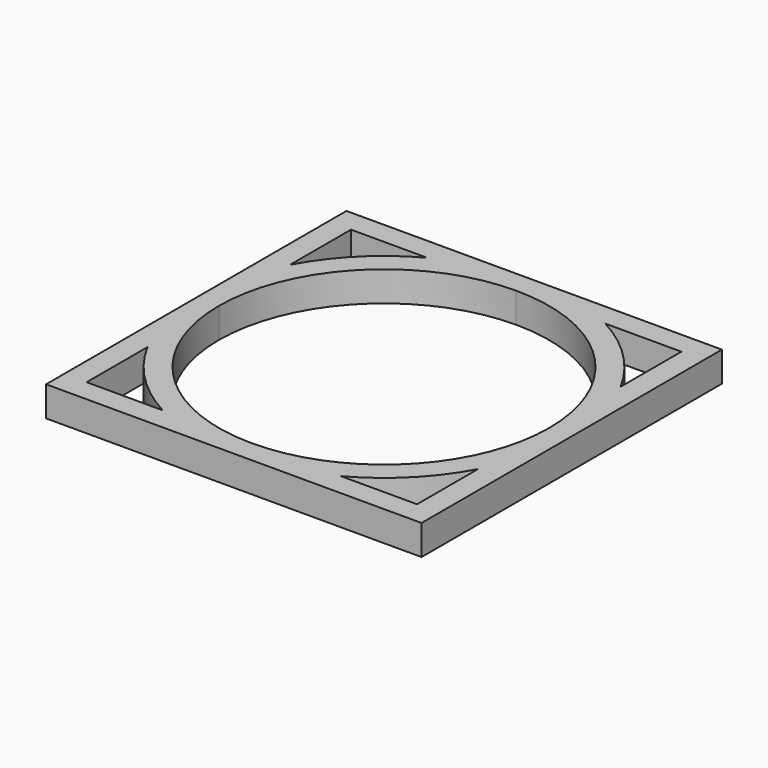
from build123d import *

# Parameters (mm, degrees)
F1_DEPTH = 4


with BuildPart() as f1:
    # F0 (on Top) → F1 (new body)
    with BuildSketch(Plane.XY):
        with BuildLine():
            Line((-50, 50), (-50, 25))
            ThreePointArc((-50, 25), (-49.2383992871, 31.123724357), (-47, 36.874342087))
            Line((-47, 36.874342087), (-47, 47))
            Line((-47, 47), (-36.874342087, 47))
            ThreePointArc((-36.874342087, 47), (-31.123724357, 49.2383992871), (-25, 50))
            Line((-25, 50), (-50, 50))
        make_face()
        with BuildLine():
            ThreePointArc((-47, 36.874342087), (-49.2383992871, 31.123724357), (-50, 25))
            ThreePointArc((-50, 25), (-49.2383992871, 18.876275643), (-47, 13.125657913))
            Line((-47, 13.125657913), (-47, 25))
            Line((-47, 25), (-47, 36.874342087))
        make_face()
        with BuildLine():
            Line((-50, 0), (-25, 0))
            ThreePointArc((-25, 0), (-31.123724357, 0.7616007129), (-36.874342087, 3))
            Line((-36.874342087, 3), (-47, 3))
            Line((-47, 3), (-47, 13.125657913))
            ThreePointArc((-47, 13.125657913), (-49.2383992871, 18.876275643), (-50, 25))
            Line((-50, 25), (-50, 0))
        make_face()
        with BuildLine():
            ThreePointArc((-36.874342087, 3), (-31.123724357, 0.7616007129), (-25, 0))
            ThreePointArc((-25, 0), (-18.876275643, 0.7616007129), (-13.125657913, 3))
            Line((-13.125657913, 3), (-25, 3))
            Line((-25, 3), (-36.874342087, 3))
        make_face()
        with BuildLine():
            Line((-25, 0), (0, 0))
            Line((0, 0), (0, 25))
            ThreePointArc((0, 25), (-0.7616007129, 18.876275643), (-3, 13.125657913))
            Line((-3, 13.125657913), (-3, 3))
            Line((-3, 3), (-13.125657913, 3))
            ThreePointArc((-13.125657913, 3), (-18.876275643, 0.7616007129), (-25, 0))
        make_face()
        with BuildLine():
            ThreePointArc((-3, 13.125657913), (-0.7616007129, 18.876275643), (0, 25))
            ThreePointArc((0, 25), (-0.7616007129, 31.123724357), (-3, 36.874342087))
            Line((-3, 36.874342087), (-3, 25))
            Line((-3, 25), (-3, 13.125657913))
        make_face()
        with BuildLine():
            ThreePointArc((-3, 36.874342087), (-0.7616007129, 31.123724357), (0, 25))
            Line((0, 25), (0, 50))
            Line((0, 50), (-25, 50))
            ThreePointArc((-25, 50), (-18.876275643, 49.2383992871), (-13.125657913, 47))
            Line((-13.125657913, 47), (-3, 47))
            Line((-3, 47), (-3, 36.874342087))
        make_face()
        with BuildLine():
            ThreePointArc((-13.125657913, 47), (-18.876275643, 49.2383992871), (-25, 50))
            ThreePointArc((-25, 50), (-31.123724357, 49.2383992871), (-36.874342087, 47))
            Line((-36.874342087, 47), (-25, 47))
            Line((-25, 47), (-13.125657913, 47))
        make_face()
        with BuildLine():
            ThreePointArc((-36.874342087, 47), (-42.6776695297, 42.6776695297), (-47, 36.874342087))
            Line((-47, 36.874342087), (-47, 25))
            ThreePointArc((-47, 25), (-40.5563491861, 40.5563491861), (-25, 47))
            Line((-25, 47), (-36.874342087, 47))
        make_face()
        with BuildLine():
            ThreePointArc((-47, 13.125657913), (-42.6776695297, 7.3223304703), (-36.874342087, 3))
            Line((-36.874342087, 3), (-25, 3))
            ThreePointArc((-25, 3), (-40.5563491861, 9.4436508139), (-47, 25))
            Line((-47, 25), (-47, 13.125657913))
        make_face()
        with BuildLine():
            Line((-25, 3), (-13.125657913, 3))
            ThreePointArc((-13.125657913, 3), (-7.3223304703, 7.3223304703), (-3, 13.125657913))
            Line((-3, 13.125657913), (-3, 25))
            ThreePointArc((-3, 25), (-9.4436508139, 9.4436508139), (-25, 3))
        make_face()
        with BuildLine():
            Line((-3, 25), (-3, 36.874342087))
            ThreePointArc((-3, 36.874342087), (-7.3223304703, 42.6776695297), (-13.125657913, 47))
            Line((-13.125657913, 47), (-25, 47))
            ThreePointArc((-25, 47), (-9.4436508139, 40.5563491861), (-3, 25))
        make_face()
    extrude(amount=F1_DEPTH)


solid = f1.part
